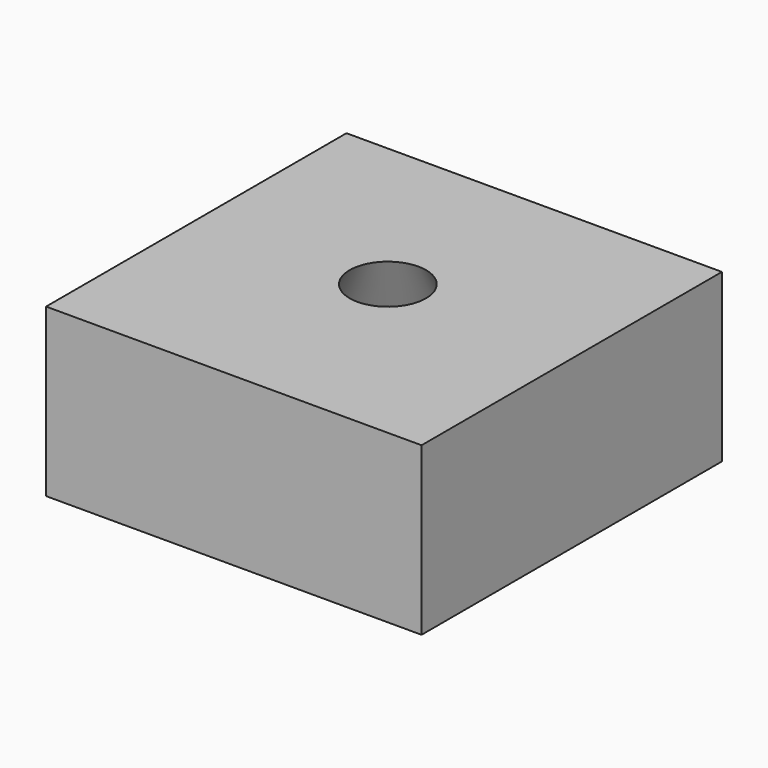
from build123d import *

# Parameters (mm, degrees)
F0_W     = 45
F0_H     = 45
F1_DEPTH = 20
F2_R     = 4.5763469256
F3_DEPTH = 25
F3_TAPER = -26.3


with BuildPart() as f1:
    # F0 (on Top) → F1 (new body)
    with BuildSketch(Plane.XY):
        with Locations((22.5, 22.5)):
            Rectangle(F0_W, F0_H)
    extrude(amount=F1_DEPTH)

    # F2 (on face) → F3 (cut)
    with BuildSketch(Plane.XY.offset(20)):
        with Locations((22.1453737468, 23.5223285854)):
            Circle(F2_R)
    extrude(amount=-F3_DEPTH, taper=F3_TAPER, mode=Mode.SUBTRACT)


solid = f1.part
